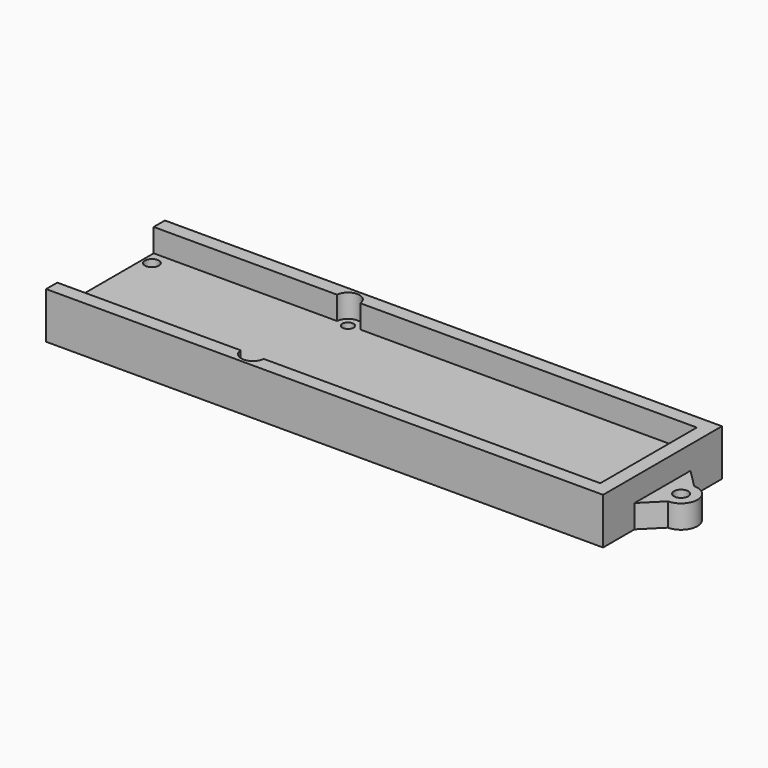
from build123d import *

# Parameters (mm, degrees)
F1_DEPTH = 10
F0_R     = 1.5
F0_R_2   = 1.2
F0_R_3   = 1.522448
F2_DEPTH = 5


with BuildPart() as f1:
    # F0 (on Top) → F1 (new body)
    with BuildSketch(Plane.XY):
        with BuildLine():
            Line((75.051136, 2.451412), (-44.948864, 2.451412))
            Line((-44.948864, 2.451412), (-44.948864, -0.56677))
            Line((-44.948864, -0.56677), (-5.442244, -0.56677))
            ThreePointArc((-5.442244, -0.56677), (-2.957982, 1.751395), (-0.456877, -0.548588))
            Line((-0.456877, -0.548588), (72.051136, -0.548588))
            Line((72.051136, -0.548588), (72.051136, -13.548588))
            Line((72.051136, -13.548588), (72.051136, -26.548588))
            Line((72.051136, -26.548588), (-0.456877, -26.548588))
            ThreePointArc((-0.456877, -26.548588), (-2.957982, -28.848572), (-5.442244, -26.530407))
            Line((-5.442244, -26.530407), (-44.948864, -26.530407))
            Line((-44.948864, -26.530407), (-44.948864, -29.548588))
            Line((-44.948864, -29.548588), (75.051136, -29.548588))
            Line((75.051136, -29.548588), (75.051136, -21.080284))
            Line((75.051136, -21.080284), (75.051136, -6.016893))
            Line((75.051136, -6.016893), (75.051136, 2.451412))
        make_face()
    extrude(amount=F1_DEPTH)

    # F0 (on Top) → F2 (join)
    with BuildSketch(Plane.XY):
        with BuildLine():
            Line((-5.442244, -0.56677), (-44.948864, -0.56677))
            Line((-44.948864, -0.56677), (-44.948864, -26.530407))
            Line((-44.948864, -26.530407), (-5.442244, -26.530407))
            ThreePointArc((-5.442244, -26.530407), (-2.957982, -28.848572), (-0.456877, -26.548588))
            Line((-0.456877, -26.548588), (72.051136, -26.548588))
            Line((72.051136, -26.548588), (72.051136, -13.548588))
            Line((72.051136, -13.548588), (72.051136, -0.548588))
            Line((72.051136, -0.548588), (-0.456877, -0.548588))
            ThreePointArc((-0.456877, -0.548588), (-2.957982, 1.751395), (-5.442244, -0.56677))
        make_face()
        with Locations((-42.948864, -23.548588)):
            Circle(F0_R, mode=Mode.SUBTRACT)
        with Locations((-2.948864, -26.348588)):
            Circle(F0_R_2, mode=Mode.SUBTRACT)
        with Locations((-42.948864, -3.548588)):
            Circle(F0_R, mode=Mode.SUBTRACT)
        with Locations((-2.948864, -0.748588)):
            Circle(F0_R_2, mode=Mode.SUBTRACT)
        with BuildLine():
            Line((79.051136, -10.016893), (75.051136, -6.016893))
            Line((75.051136, -6.016893), (75.051136, -21.080284))
            Line((75.051136, -21.080284), (79.051136, -17.080284))
            ThreePointArc((79.051136, -17.080284), (82.582832, -13.548588), (79.051136, -10.016893))
        make_face()
        with Locations((79.051136, -13.548588)):
            Circle(F0_R_3, mode=Mode.SUBTRACT)
    extrude(amount=F2_DEPTH)


solid = f1.part
